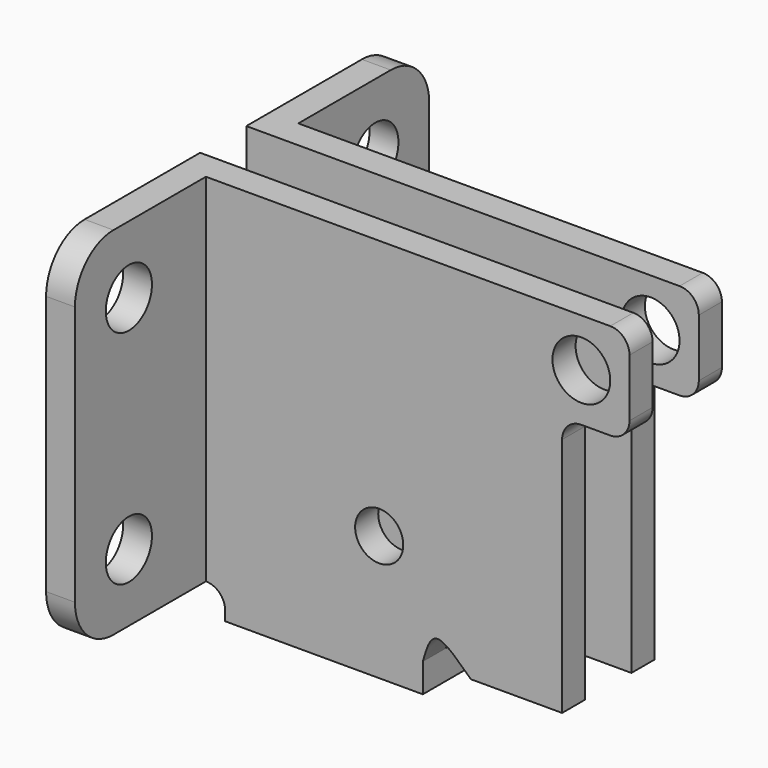
from build123d import *

# Parameters (mm, degrees)
F1_DEPTH = 44
F2_R     = 3
F3_DEPTH = 3
F4_W     = 21.4669842049
F4_H     = 12
F5_DEPTH = 3
F6_R     = 3
F6_R_2   = 2.5
F7_DEPTH = 25


with BuildPart() as f1:
    # F0 (on Right) → F1 (new body)
    with BuildSketch(Plane.YZ):
        Polygon((6, -20), (6, 20), (3, 20), (3, -17), (-3, -17), (-3, 20), (-6, 20), (-6, -20), align=None)
    extrude(amount=F1_DEPTH)

    # F2 (on face) → F3 (join)
    with BuildSketch(Plane(origin=(0, 0, 0), x_dir=(0, -1, 0), z_dir=(-1, 0, 0))):
        with BuildLine():
            Line((-3, -17), (-3, 20))
            Line((-3, 20), (-18, 20))
            ThreePointArc((-18, 20), (-21.5355339059, 18.5355339059), (-23, 15))
            Line((-23, 15), (-23, -12))
            ThreePointArc((-23, -12), (-21.5355339059, -15.5355339059), (-18, -17))
            Line((-18, -17), (-3, -17))
        make_face()
        with Locations((-16, -10)):
            Circle(F2_R, mode=Mode.SUBTRACT)
        with Locations((-16, 13)):
            Circle(F2_R, mode=Mode.SUBTRACT)
        with BuildLine():
            Line((18, 20), (3, 20))
            Line((3, 20), (3, -17))
            Line((3, -17), (18, -17))
            ThreePointArc((18, -17), (21.5355339059, -15.5355339059), (23, -12))
            Line((23, -12), (23, 15))
            ThreePointArc((23, 15), (21.5355339059, 18.5355339059), (18, 20))
        make_face()
        with Locations((16, -10)):
            Circle(F2_R, mode=Mode.SUBTRACT)
        with Locations((16, 13)):
            Circle(F2_R, mode=Mode.SUBTRACT)
    extrude(amount=F3_DEPTH)

    # F4 (on face) → F5 (cut)
    with BuildSketch(Plane(origin=(0, 0, -20), x_dir=(1, 0, 0), z_dir=(0, 0, -1))):
        with Locations((33.2665078975, 0)):
            Rectangle(F4_W, F4_H)
    extrude(amount=-F5_DEPTH, mode=Mode.SUBTRACT)

    # F6 (on face) → F7 (cut)
    with BuildSketch(Plane(origin=(0, 6, 0), x_dir=(-1, 0, 0), z_dir=(0, 1, 0))):
        with BuildLine():
            Line((-44, -17), (-37, -17))
            Line((-37, -17), (-37, 8))
            ThreePointArc((-37, 8), (-37.5857864376, 9.4142135624), (-39, 10))
            Line((-39, 10), (-42, 10))
            ThreePointArc((-42, 10), (-43.4142135624, 10.5857864376), (-44, 12))
            Line((-44, 12), (-44, -17))
        make_face()
        with Locations((-39, 15)):
            Circle(F6_R)
        with BuildLine():
            Line((-44, 20), (-44, 18))
            ThreePointArc((-44, 18), (-43.4142135624, 19.4142135624), (-42, 20))
            Line((-42, 20), (-44, 20))
        make_face()
        with BuildLine():
            Line((-2, -19), (-2, -20))
            Line((-2, -20), (0, -20))
            Line((0, -20), (0, -17))
            ThreePointArc((0, -17), (-1.4142135624, -17.5857864376), (-2, -19))
        make_face()
        with BuildLine():
            add(Edge.make_bspline(
                [(-22.5330157951, -17), (-22.7836436775, -16.1303906467), (-23.1942051069, -14.7058546262), (-24.5152526704, -14.1009978001), (-26.3186845718, -15.8337712078), (-27.5330157951, -17)],
                knots=[0, 0, 0, 0, 0.3386124105, 0.5546847127, 1, 1, 1, 1], degree=3))
            Line((-27.5330157951, -17), (-22.5330157951, -17))
        make_face()
        with Locations((-18, -7)):
            Circle(F6_R_2)
    extrude(amount=-F7_DEPTH, mode=Mode.SUBTRACT)


solid = f1.part
